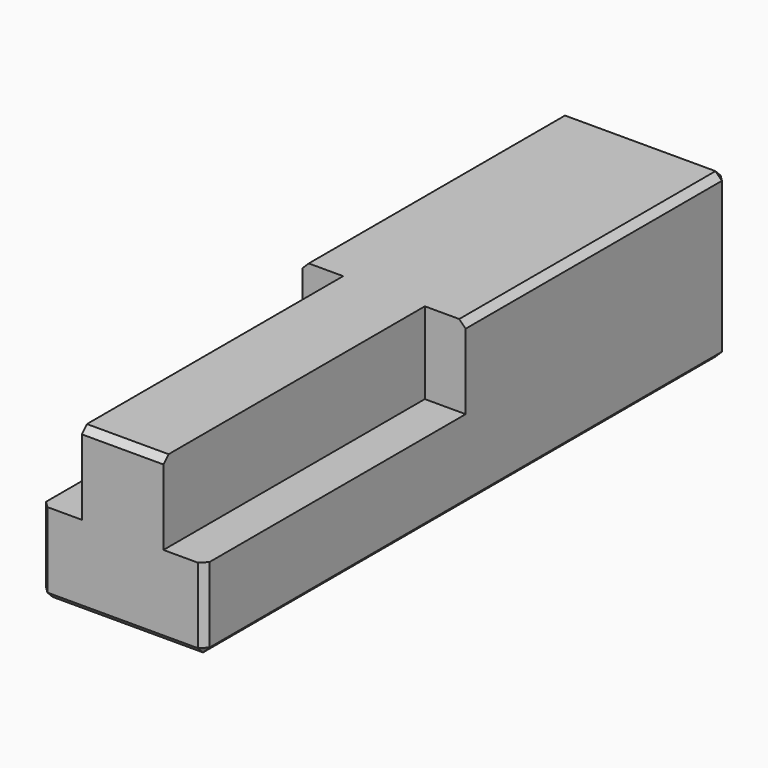
from build123d import *

# Parameters (mm, degrees)
F0_W     = 25.4
F0_H     = 25.4
F1_DEPTH = 50.8
F2_W     = 6.35
F2_H     = 12.7
F3_DEPTH = 50.8
F4_SIZE  = 1


with BuildPart() as f1:
    # F0 (on Front) → F1 (new body, symmetric)
    with BuildSketch(Plane.XZ):
        Rectangle(F0_W, F0_H)
    extrude(amount=F1_DEPTH, both=True)

    # F2 (on face) → F3 (cut)
    with BuildSketch(Plane.XZ.offset(50.8)):
        with Locations((-9.525, 6.35)):
            Rectangle(F2_W, F2_H)
        with Locations((9.525, 6.35)):
            Rectangle(F2_W, F2_H)
    extrude(amount=-F3_DEPTH, mode=Mode.SUBTRACT)

    # F4
    f4_edges = [f1.edges().sort_by_distance(p)[0] for p in [
        (12.7, 25.4, 12.7),
        (12.7, 0, -12.7),
        (12.7, 50.8, 0),
        (12.7, -50.8, -6.35),
        (0, -50.8, 12.7),
        (-12.7, -50.8, -6.35),
        (-12.7, 25.4, 12.7),
        (0, 50.8, 12.7),
        (0, -50.8, -12.7),
        (-12.7, 0, -12.7),
        (-12.7, 50.8, 0),
        (0, 50.8, -12.7),
    ]]
    chamfer(f4_edges, length=F4_SIZE)


solid = f1.part
